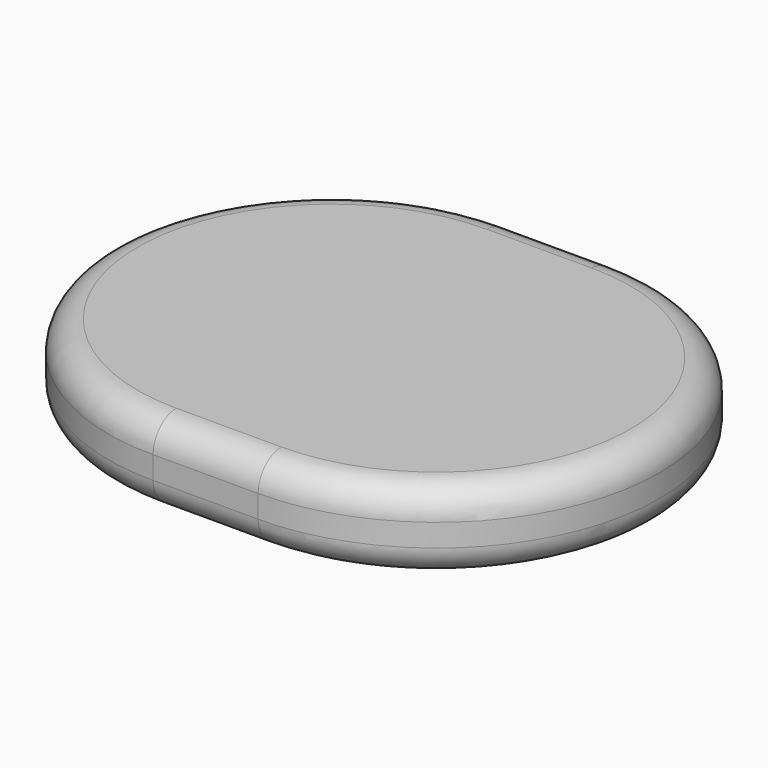
from build123d import *

# Parameters (mm, degrees)
F0_W     = 32.5
F0_H     = 138
F1_DEPTH = 25
F2_R     = 9


with BuildPart() as f1:
    # F0 (on Top) → F1 (new body)
    with BuildSketch(Plane.XY):
        with BuildLine():
            Line((-32.5, -69), (-32.5, 69))
            ThreePointArc((-32.5, 69), (-101.5, 0), (-32.5, -69))
        make_face()
        with Locations((-16.25, 0)):
            Rectangle(F0_W, F0_H)
        with BuildLine():
            ThreePointArc((0, -69), (69, 0), (0, 69))
            Line((0, 69), (0, -69))
        make_face()
    extrude(amount=F1_DEPTH)

    # F2
    f2_edges = [f1.edges().sort_by_distance(p)[0] for p in [
        (-101.5, 0, 25),
        (69, 0, 25),
        (-16.25, 69, 25),
        (-16.25, 69, 0),
        (69, 0, 0),
        (-101.5, 0, 0),
        (-16.25, -69, 25),
        (-16.25, -69, 0),
    ]]
    fillet(f2_edges, radius=F2_R)


solid = f1.part
